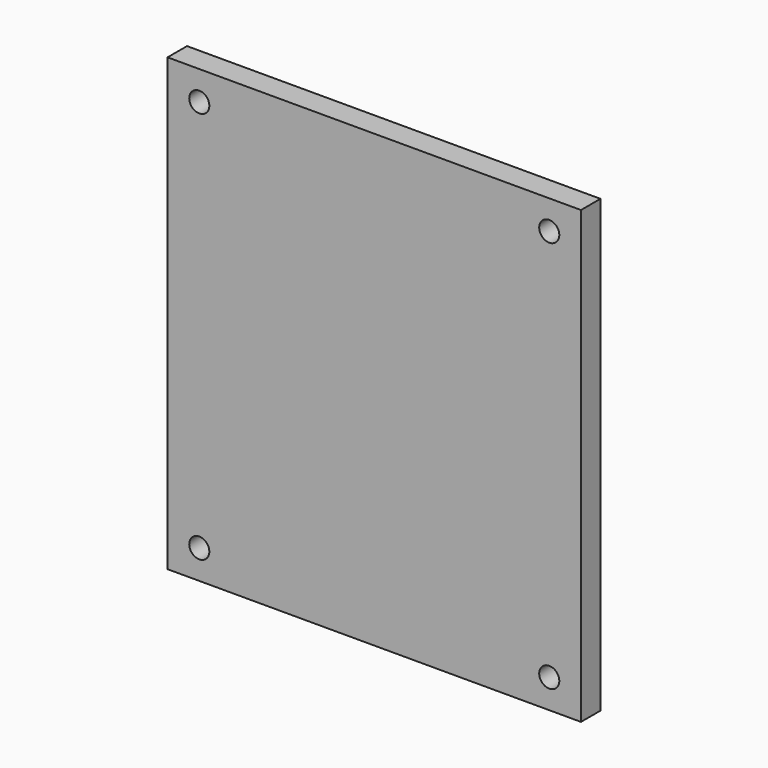
from build123d import *

# Parameters (mm, degrees)
F0_W     = 135.8495354652
F0_H     = 148.0824053288
F0_W_2   = 115
F0_H_2   = 129
F1_DEPTH = 8
F2_D     = 6.6


with BuildPart() as f1:
    # F0 (on Front) → F1 (new body)
    with BuildSketch(Plane.XZ):
        Rectangle(F0_W, F0_H)
        Rectangle(F0_W_2, F0_H_2, mode=Mode.SUBTRACT)
        Rectangle(F0_W_2, F0_H_2)
    extrude(amount=F1_DEPTH)

    # F2 (through all)
    with Locations(Plane(origin=(0, 0, 0), x_dir=(1, 0, 0), z_dir=(0, 1, 0))):
        with Locations((-57.5, -64.5), (57.5, -64.5), (57.5, 64.5), (-57.5, 64.5)):
            Hole(F2_D / 2)


solid = f1.part
